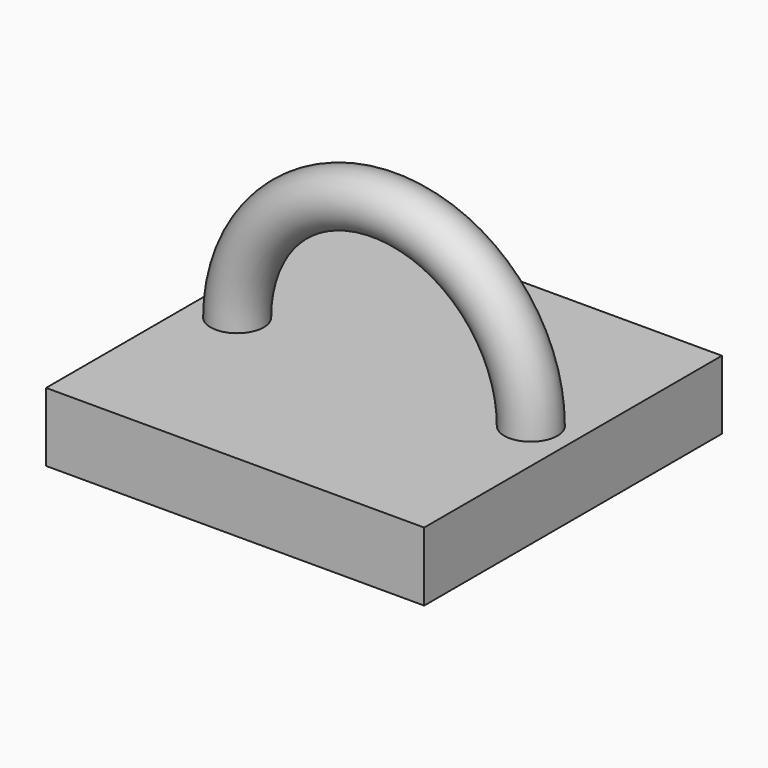
from build123d import *

# Parameters (mm, degrees)
F0_W     = 69.863096
F0_H     = 137.526572
F2_DEPTH = 25.4
F1_R     = 9.824635
F3_ANGLE = 180


with BuildPart() as f2:
    # F0 (on Top) → F2 (new body)
    with BuildSketch(Plane.XY):
        with Locations((34.931548, 0)):
            Rectangle(F0_W, F0_H)
        with Locations((-34.931548, 0)):
            Rectangle(F0_W, F0_H)
    extrude(amount=-F2_DEPTH)


with BuildPart() as f3:
    # F1 (on Top) → F3 (revolve)
    with BuildSketch(Plane.XY):
        with Locations((54.264009, 0)):
            Circle(F1_R)
    revolve(axis=Axis((0, 0, 0), (0, -1, 0)), revolution_arc=F3_ANGLE)


solid = Compound([f2.part, f3.part])
